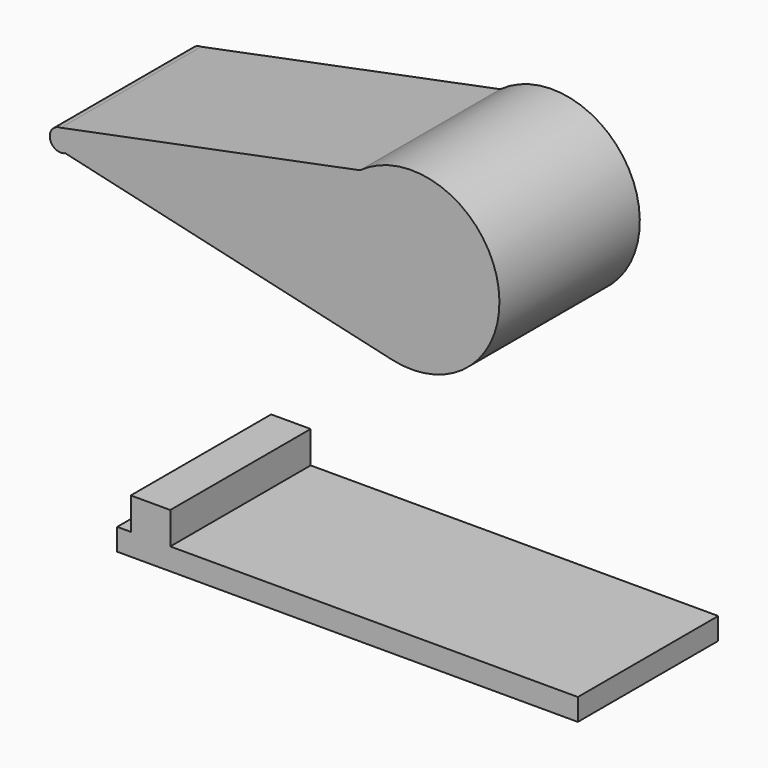
from build123d import *

# Parameters (mm, degrees)
F0_W     = 5.715
F0_H     = 4.642638
F1_DEPTH = 25.4


with BuildPart() as f1:
    # F0 (on Front) → F1 (new body)
    with BuildSketch(Plane.XZ):
        Polygon((-29.830527, -46.607873), (-31.795876, -46.607873), (-31.795876, -49.782873), (34.879124, -49.782873), (34.879124, -46.607873), (-24.115527, -46.607873), align=None)
        with Locations((-26.973027, -44.286554)):
            Rectangle(F0_W, F0_H)
        with BuildLine():
            ThreePointArc((-39.972443, 1.5875), (-41.524111, -0.335385), (-39.316813, -1.445789))
            ThreePointArc((-39.316813, -1.445789), (-38.638095, -0.860042), (-38.384943, 0))
            ThreePointArc((-38.384943, 0), (-38.849911, 1.122532), (-39.972443, 1.5875))
        make_face()
        with BuildLine():
            Line((-39.316813, -1.445789), (7.967813, -12.373838))
            ThreePointArc((7.967813, -12.373838), (23.269036, 2.54943), (3.33151, 10.251794))
            Line((3.33151, 10.251794), (-39.972443, 1.5875))
            ThreePointArc((-39.972443, 1.5875), (-38.849911, 1.122532), (-38.384943, 0))
            ThreePointArc((-38.384943, 0), (-38.638095, -0.860042), (-39.316813, -1.445789))
        make_face()
    extrude(amount=F1_DEPTH)


solid = f1.part
